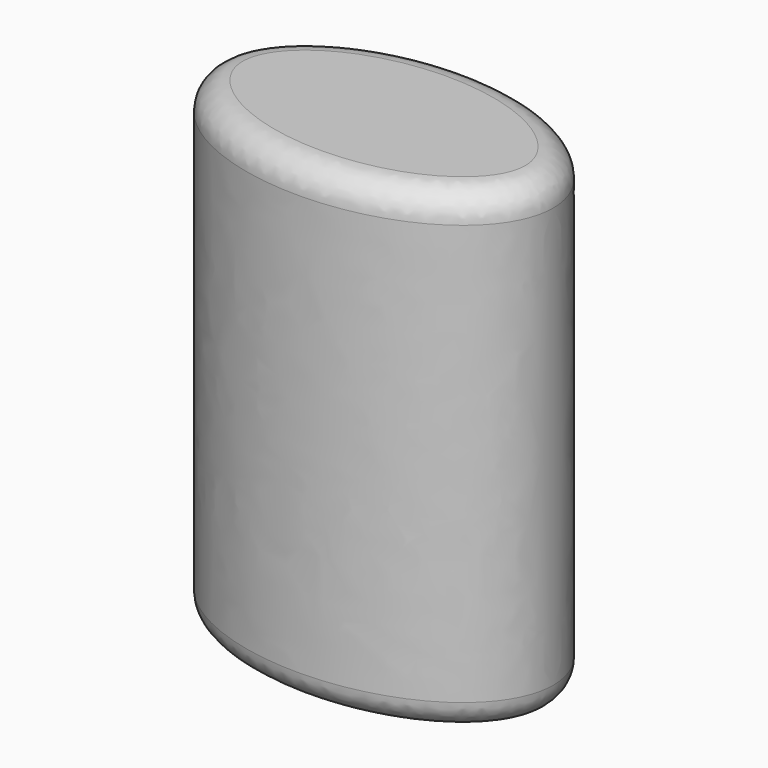
from build123d import *

# Parameters (mm, degrees)
F1_DEPTH = 84.7
F2_R     = 5


with BuildPart() as f1:
    # F0 (on Top) → F1 (new body)
    with BuildSketch(Plane.XY):
        with BuildLine():
            add(Edge.make_bspline(
                [(30.117063, 0), (30.117063, 33.210653), (-15.058531, 16.605326), (-60.234126, 0), (-15.058531, -16.605326), (30.117063, -33.210653), (30.117063, 0)],
                knots=[0, 0, 0, 2.094395, 2.094395, 4.18879, 4.18879, 6.283185, 6.283185, 6.283185], degree=2, weights=[1, 0.5, 1, 0.5, 1, 0.5, 1]))
        make_face()
    extrude(amount=F1_DEPTH)

    # F2
    f2_edges = [f1.edges().sort_by_distance(p)[0] for p in [
        (-30.117063, 0, 84.7),
        (-30.117063, 0, 0),
    ]]
    fillet(f2_edges, radius=F2_R)


solid = f1.part
